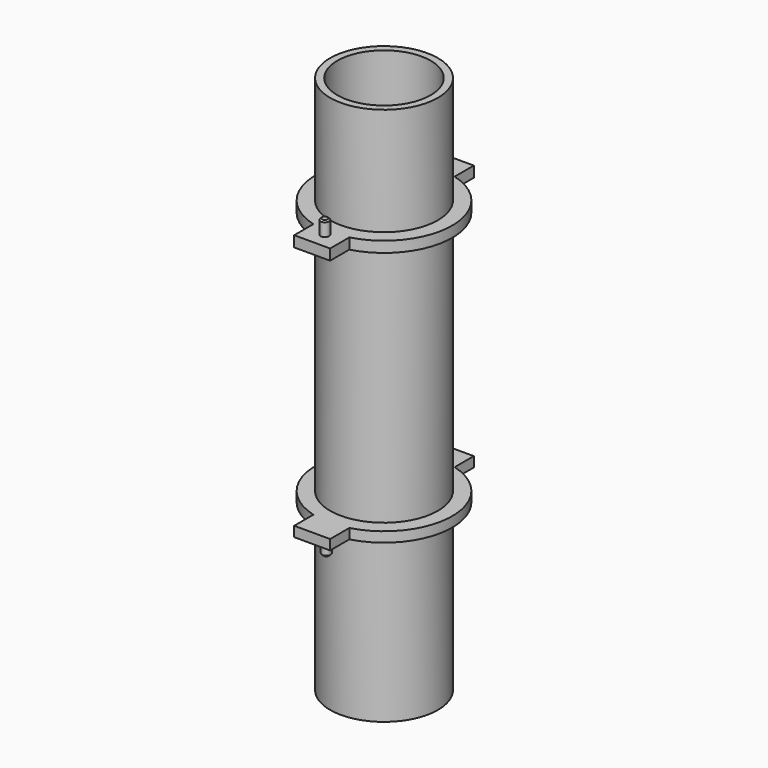
from build123d import *

# Parameters (mm, degrees)
F0_R        = 7.5
F1_DEPTH    = 75
F2_T        = -1
F4_DEPTH    = 25
F6_D        = 1.5
F6_DEPTH    = 25
F6_TIP      = 0.4506454643
F5_R        = 0.8075633059
F5_R_2      = 0.5172212245
F5_R_3      = 0.4893329223
F7_DEPTH    = 25
F9_START    = -15
F8_R        = 9.5
F8_R_2      = 7.5
F9_DEPTH    = 37
F10_START   = -1.5
F9_FACE_R   = 9.5
F9_FACE_R_2 = 7.5
F10_DEPTH   = 34.1
F12_DEPTH   = 37
F13_W       = 3.3348486101
F13_H       = 34.1
F13_W_2     = 5
F14_DEPTH   = 25
F16_D       = 1.5
F16_DEPTH   = 200
F16_TIP     = 0.4506454643
F17_R       = 0.6
F18_DEPTH   = 2
F19_SIZE    = 0.2
F20_R       = 0.6
F21_DEPTH   = 3.5
F22_SIZE    = 0.2


with BuildPart() as f1:
    # F0 (on Top) → F1 (new body)
    with BuildSketch(Plane.XY):
        Circle(F0_R)
        Circle(F0_R)
    extrude(amount=F1_DEPTH)

    # F2
    f2_openings = [f1.faces().sort_by_distance(p)[0] for p in [
        (0, 0, 75),
    ]]
    offset(amount=F2_T, openings=f2_openings)

    # F3 (on face) → F4 (cut)
    with BuildSketch(Plane(origin=(0, 0, 0), x_dir=(1, 0, 0), z_dir=(0, 0, -1))):
        with BuildLine():
            Line((-5.0392321942, 2), (5.0392321942, 2))
            ThreePointArc((5.0392321942, 2), (0, 5.421610564), (-5.0392321942, 2))
        make_face()
        with BuildLine():
            ThreePointArc((-5.0392321942, -2), (0, -5.421610564), (5.0392321942, -2))
            Line((5.0392321942, -2), (-5.0392321942, -2))
        make_face()
    extrude(amount=-F4_DEPTH, mode=Mode.SUBTRACT)

    # F6
    with Locations(Plane(origin=(0, 0, 0), x_dir=(1, 0, 0), z_dir=(0, 0, -1))):
        with Locations((0, 0)):
            Hole(F6_D / 2, depth=F6_DEPTH)
            with Locations((0, 0, -(F6_DEPTH + F6_TIP / 2))):  # 118° drill point
                Cone(0, F6_D / 2, F6_TIP, mode=Mode.SUBTRACT)

    # F5 (on face) → F7 (cut)
    with BuildSketch(Plane(origin=(0, 0, 0), x_dir=(1, 0, 0), z_dir=(0, 0, -1))):
        Circle(F5_R)
        with Locations((-3.9731087163, 0)):
            Circle(F5_R_2)
        with Locations((4.63699596, 0)):
            Circle(F5_R_3)
    extrude(amount=-F7_DEPTH, mode=Mode.SUBTRACT)

    # F8 (on face) → F9 (join)
    with BuildSketch(Plane.XY.offset(75).offset(F9_START)):
        Circle(F8_R)
        Circle(F8_R_2, mode=Mode.SUBTRACT)
    extrude(amount=-F9_DEPTH)

    # F9_face (on face) → F10 (cut)
    with BuildSketch(Plane.XY.offset(60).offset(F10_START)):
        Circle(F9_FACE_R)
        Circle(F9_FACE_R_2, mode=Mode.SUBTRACT)
    extrude(amount=-F10_DEPTH, mode=Mode.SUBTRACT)

    # F11 (on face) → F12 (join)
    with BuildSketch(Plane.XY.offset(60)):
        with BuildLine():
            ThreePointArc((2.5, -9.1651513899), (0, -9.5), (-2.5, -9.1651513899))
            Line((-2.5, -9.1651513899), (-2.5, -12.5))
            Line((-2.5, -12.5), (2.5, -12.5))
            Line((2.5, -12.5), (2.5, -9.1651513899))
        make_face()
        with BuildLine():
            Line((-2.5, 12.5), (-2.5, 9.1651513899))
            ThreePointArc((-2.5, 9.1651513899), (0, 9.5), (2.5, 9.1651513899))
            Line((2.5, 9.1651513899), (2.5, 12.5))
            Line((2.5, 12.5), (-2.5, 12.5))
        make_face()
    extrude(amount=-F12_DEPTH)

    # F13 (on face) → F14 (cut)
    with BuildSketch(Plane.YZ.offset(2.5)):
        with Locations((10.832575695, 41.45)):
            Rectangle(F13_W, F13_H)
        with Locations((-11.1832837015, 41.45)):
            Rectangle(F13_W_2, F13_H)
    extrude(amount=-F14_DEPTH, mode=Mode.SUBTRACT)

    # F16
    with Locations(Plane.XY.offset(60)):
        with Locations((0, 10.4414262056)):
            Hole(F16_D / 2, depth=F16_DEPTH)
            with Locations((0, 0, -(F16_DEPTH + F16_TIP / 2))):  # 118° drill point
                Cone(0, F16_D / 2, F16_TIP, mode=Mode.SUBTRACT)

    # F17 (on face) → F18 (join)
    with BuildSketch(Plane.XY.offset(60)):
        with Locations((0, -10.3)):
            Circle(F17_R)
    extrude(amount=F18_DEPTH)

    # F19
    f19_edges = [f1.edges().sort_by_distance(p)[0] for p in [
        (-0.6, -10.3, 62),
    ]]
    chamfer(f19_edges, length=F19_SIZE)

    # F20 (on face) → F21 (join)
    with BuildSketch(Plane.XY.offset(24.4)):
        with Locations((0.2855480707, -10.4)):
            Circle(F20_R)
    extrude(amount=-F21_DEPTH)

    # F22
    f22_edges = [f1.edges().sort_by_distance(p)[0] for p in [
        (-0.314452, -10.4, 20.9),
    ]]
    chamfer(f22_edges, length=F22_SIZE)


solid = f1.part
